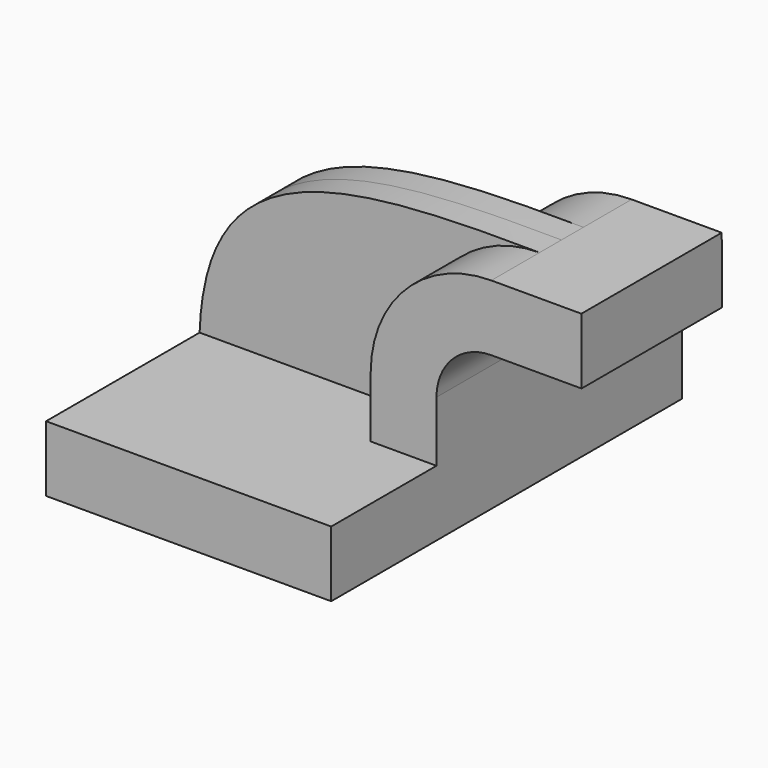
from build123d import *

# Parameters (mm, degrees)
F1_DEPTH = 63.5
F2_DEPTH = 25.4
F3_DEPTH = 7.9375


with BuildPart() as f1:
    # F0 (on Front) → F1 (new body, symmetric)
    with BuildSketch(Plane.XZ):
        Polygon((22.225, 9.525), (-41.275, 9.525), (-41.275, -9.525), (41.275, -9.525), (41.275, 9.525), align=None)
    extrude(amount=F1_DEPTH, both=True)

    # F0 (on Front) → F2 (join, symmetric)
    with BuildSketch(Plane.XZ):
        with BuildLine():
            Line((22.225, 27.0002), (22.225, 9.525))
            Line((22.225, 9.525), (41.275, 9.525))
            Line((41.275, 9.525), (41.275, 27.0002))
            ThreePointArc((41.275, 27.0002), (45.9246798487, 38.2255201513), (57.15, 42.8752))
            Line((57.15, 42.8752), (60.325, 42.8752))
            Line((60.325, 42.8752), (60.325, 61.9252))
            Line((60.325, 61.9252), (57.15, 61.9252))
            ThreePointArc((57.15, 61.9252), (32.4542956671, 51.6959043329), (22.225, 27.0002))
        make_face()
        Polygon((83.2245436112, 61.9252), (60.325, 61.9252), (60.325, 42.8752), (83.2786646287, 42.8752), align=None)
    extrude(amount=F2_DEPTH, both=True)

    # F0 (on Front) → F3 (join, symmetric)
    with BuildSketch(Plane.XZ):
        with BuildLine():
            add(Edge.make_bspline(
                [(57.15, 61.9252), (0, 62.4593123794), (-39.5135097206, 58.9755401015), (-41.275, 9.525)],
                knots=[0, 0, 0, 0, 111.5045361635, 111.5045361635, 111.5045361635, 111.5045361635], degree=3))
            Line((-41.275, 9.525), (22.225, 9.525))
            Line((22.225, 9.525), (22.225, 27.0002))
            ThreePointArc((22.225, 27.0002), (32.4542956671, 51.6959043329), (57.15, 61.9252))
        make_face()
    extrude(amount=F3_DEPTH, both=True)


solid = f1.part
